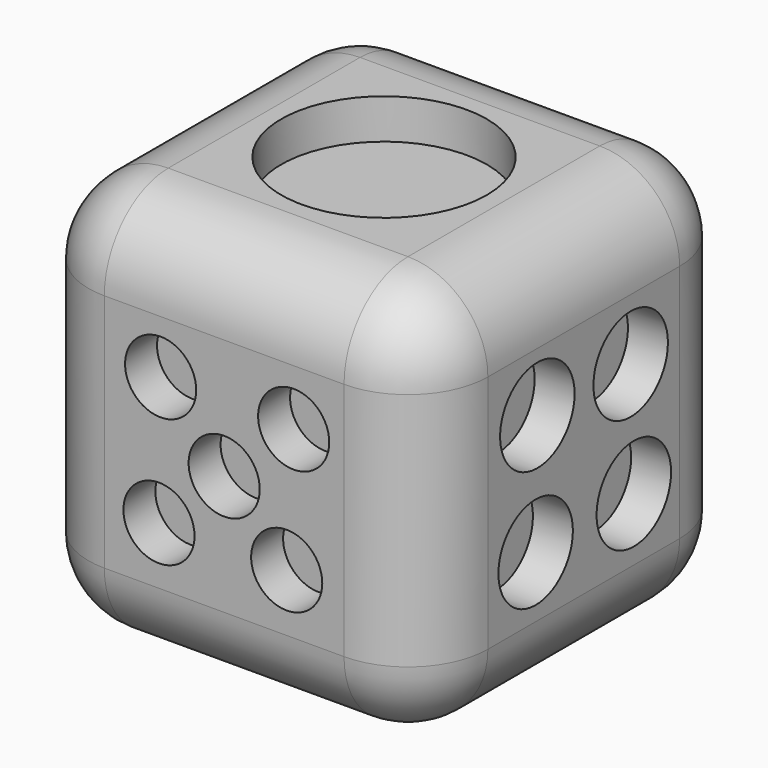
from build123d import *

# Parameters (mm, degrees)
F0_W      = 25.4
F0_H      = 25.4
F1_DEPTH  = 12.7
F1_FACE_W = 25.4
F1_FACE_H = 25.4
F2_DEPTH  = 12.7
F3_R      = 5.08
F7_R      = 2.308926
F7_R_2    = 2.30805
F7_R_3    = 2.2479
F7_R_4    = 2.311607
F7_R_5    = 2.312582
F7_R_6    = 2.312581
F10_DEPTH = 2.54
F6_R      = 6.538788
F11_DEPTH = 2.54
F4_R      = 2.2606
F12_DEPTH = 2.54
F5_R      = 3.8354
F13_DEPTH = 2.54
F8_R      = 2.3622
F14_DEPTH = 2.54
F9_R      = 2.9591
F15_DEPTH = 2.54


with BuildPart() as f1:
    # F0 (on Front) → F1 (new body)
    with BuildSketch(Plane.XZ):
        Rectangle(F0_W, F0_H)
    extrude(amount=F1_DEPTH)

    # F1_face (on face) → F2 (join)
    with BuildSketch(Plane(origin=(0, 0, 0), x_dir=(1, 0, 0), z_dir=(0, 1, 0))):
        Rectangle(F1_FACE_W, F1_FACE_H)
    extrude(amount=F2_DEPTH)

    # F3
    f3_edges = [f1.edges().sort_by_distance(p)[0] for p in [
        (0, -12.7, 12.7),
        (-12.7, -12.7, 0),
        (12.7, -12.7, 0),
        (12.7, 0, 12.7),
        (0, -12.7, -12.7),
        (-12.7, 0, -12.7),
        (12.7, 0, -12.7),
        (-12.7, 0, 12.7),
        (-12.7, 12.7, 0),
        (0, 12.7, -12.7),
        (12.7, 12.7, 0),
        (0, 12.7, 12.7),
    ]]
    fillet(f3_edges, radius=F3_R)

    # F7 (on face) → F10 (cut)
    with BuildSketch(Plane(origin=(0, 0, -12.7), x_dir=(1, 0, 0), z_dir=(0, 0, -1))):
        with Locations((-3.688791, -5.030171)):
            Circle(F7_R)
        with Locations((-3.569339, 0)):
            Circle(F7_R_2)
        with Locations((4.25537, -5.001526)):
            Circle(F7_R_3)
        with Locations((4.051426, 0)):
            Circle(F7_R_4)
        with Locations((3.942381, 4.969389)):
            Circle(F7_R_5)
        with Locations((-3.509941, 5.03017)):
            Circle(F7_R_6)
    extrude(amount=-F10_DEPTH, mode=Mode.SUBTRACT)

    # F6 (on face) → F11 (cut)
    with BuildSketch(Plane.XY.offset(12.7)):
        Circle(F6_R)
    extrude(amount=-F11_DEPTH, mode=Mode.SUBTRACT)

    # F4 (on face) → F12 (cut)
    with BuildSketch(Plane.XZ.offset(12.7)):
        Circle(F4_R)
        with Locations((-4.04017, 4.238222)):
            Circle(F4_R)
        with Locations((4.417736, 4.066108)):
            Circle(F4_R)
        with Locations((-4.146772, -3.964508)):
            Circle(F4_R)
        with Locations((3.975104, -3.964508)):
            Circle(F4_R)
    extrude(amount=-F12_DEPTH, mode=Mode.SUBTRACT)

    # F5 (on face) → F13 (cut)
    with BuildSketch(Plane(origin=(0, 12.7, 0), x_dir=(-1, 0, 0), z_dir=(0, 1, 0))):
        with Locations((3.08777, 3.088401)):
            Circle(F5_R)
        with Locations((-3.340728, -2.967977)):
            Circle(F5_R)
    extrude(amount=-F13_DEPTH, mode=Mode.SUBTRACT)

    # F8 (on face) → F14 (cut)
    with BuildSketch(Plane(origin=(-12.7, 0, 0), x_dir=(0, -1, 0), z_dir=(-1, 0, 0))):
        Circle(F8_R)
        with Locations((3.981089, 4.393674)):
            Circle(F8_R)
        with Locations((-4.135615, -3.990615)):
            Circle(F8_R)
    extrude(amount=-F14_DEPTH, mode=Mode.SUBTRACT)

    # F9 (on face) → F15 (cut)
    with BuildSketch(Plane.YZ.offset(12.7)):
        with Locations((-3.688771, 3.876482)):
            Circle(F9_R)
        with Locations((3.727126, 3.728518)):
            Circle(F9_R)
        with Locations((-3.824933, -3.732581)):
            Circle(F9_R)
        with Locations((3.978793, -3.627112)):
            Circle(F9_R)
    extrude(amount=-F15_DEPTH, mode=Mode.SUBTRACT)


solid = f1.part
